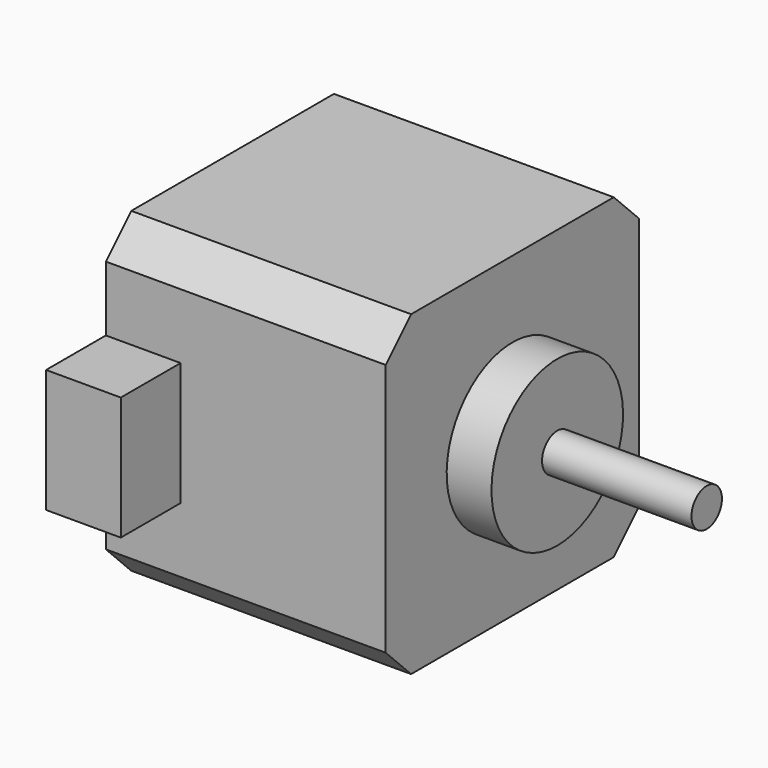
from build123d import *

# Parameters (mm, degrees)
PAD007_DEPTH            = 37.45
SKETCH006_W             = 16.5
SKETCH006_H             = 10
PAD006_DEPTH            = 10
SKETCH007_R             = 11
PAD004_DEPTH            = 6
SKETCH004_R             = 2.545
PAD005_DEPTH            = 20
BODY001_PLACEMENT_ANGLE = 90


with BuildPart() as part:
    # Sketch005 → Pad007 (new body)
    with BuildSketch(Plane.XY):
        Polygon((-21.2, 16.95), (-21.2, -16.95), (-16.95, -21.2), (16.95, -21.2), (21.2, -16.95), (21.2, 16.95), (16.95, 21.2), (-16.95, 21.2), align=None)
    extrude(amount=PAD007_DEPTH)

    # Sketch006 (on Face3 of Pad007) → Pad006 (join)
    with BuildSketch(Plane.XZ.offset(21.2)):
        with Locations((0, 5)):
            Rectangle(SKETCH006_W, SKETCH006_H)
    extrude(amount=PAD006_DEPTH)

    # Sketch007 (on Face5 of Pad006) → Pad004 (join)
    with BuildSketch(Plane.XY.offset(37.45)):
        Circle(SKETCH007_R)
    extrude(amount=PAD004_DEPTH)

    # Sketch004 (on Face17 of Pad004) → Pad005 (join)
    with BuildSketch(Plane.XY.offset(43.45)):
        Circle(SKETCH004_R)
    extrude(amount=PAD005_DEPTH)


with BuildPart() as part_1:
    # Body001 placement: moved
    add(part.part.moved(Location((20, 0, 0))).rotate(Axis((20, 0, 0), (0, 1, 0)), BODY001_PLACEMENT_ANGLE))


solid = part_1.part
